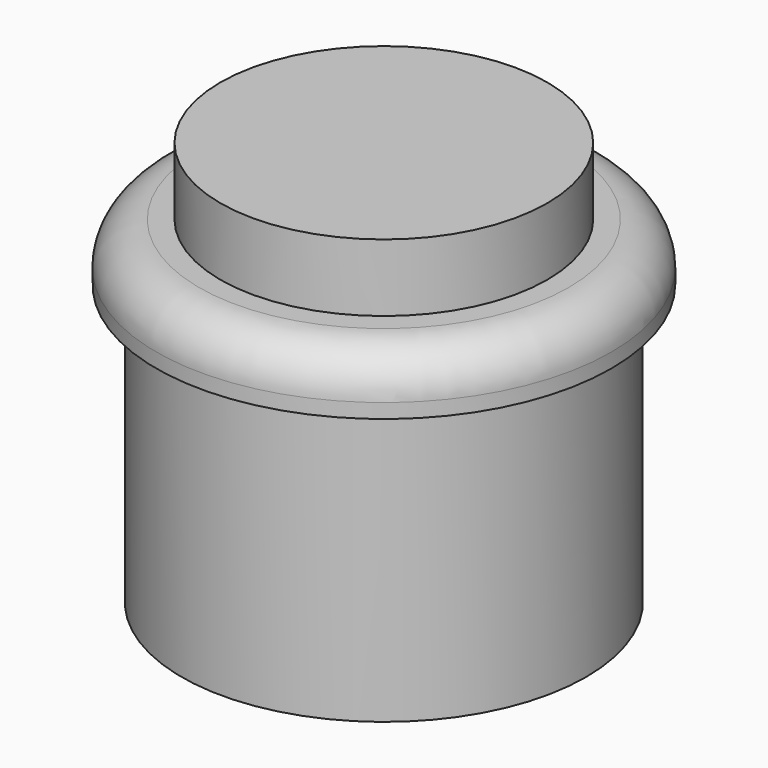
from build123d import *

# Parameters (mm, degrees)
F2_R = 2.54


with BuildPart() as f1:
    # F0 (on Front) → F1 (revolve)
    with BuildSketch(Plane.XZ):
        Polygon((9.7, 7.4), (0, 7.4), (0, -16.6), (12, -16.6), (12, 0), (13.5, 0), (13.5, 3.4), (9.7, 3.4), align=None)
    revolve(axis=Axis((0, 0, -4.6), (0, 0, -1)))

    # F2
    f2_edges = [f1.edges().sort_by_distance(p)[0] for p in [
        (-13.5, 0, 3.4),
    ]]
    fillet(f2_edges, radius=F2_R)


solid = f1.part
